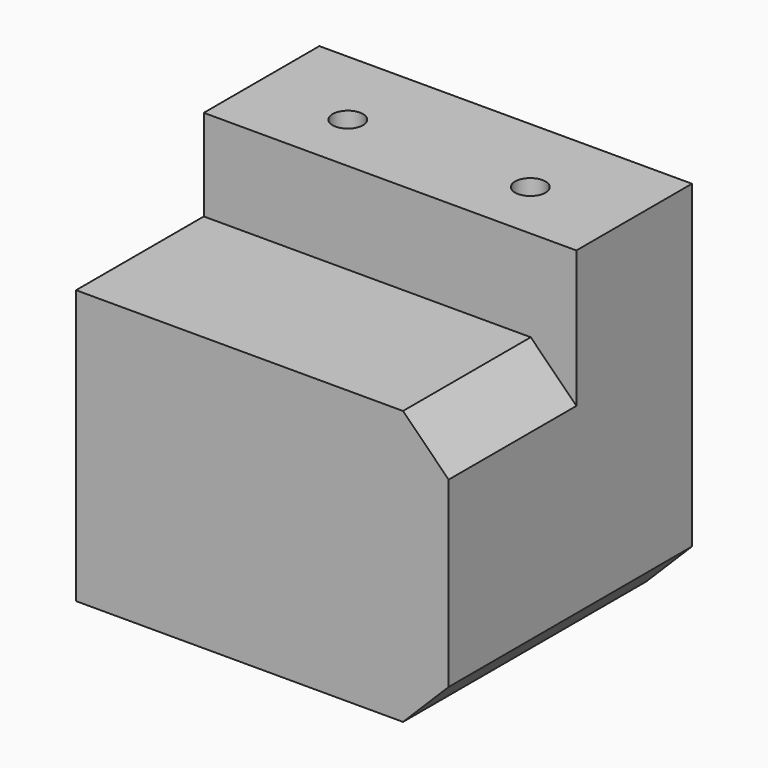
from build123d import *

# Parameters (mm, degrees)
SKETCH061_W     = 24.5
SKETCH061_H     = 20
PAD029_DEPTH    = 24
SKETCH062_W     = 24.5
SKETCH062_H     = 10.5
POCKET039_DEPTH = 6
CHAMFER023_SIZE = 3
SKETCH063_R     = 1
POCKET040_DEPTH = 24.001
CHAMFER025_SIZE = 3


with BuildPart() as part:
    # Sketch061 → Pad029 (new body)
    with BuildSketch(Plane.XY):
        with Locations((-183.55, 206.2)):
            Rectangle(SKETCH061_W, SKETCH061_H)
    extrude(amount=PAD029_DEPTH)

    # Sketch062 (on Face6 of Pad029) → Pocket039 (cut)
    with BuildSketch(Plane.XY.offset(24)):
        with Locations((-183.55, 201.45)):
            Rectangle(SKETCH062_W, SKETCH062_H)
    extrude(amount=-POCKET039_DEPTH, mode=Mode.SUBTRACT)

    # Chamfer023
    chamfer023_edges = [part.edges().sort_by_distance(p)[0] for p in [
        (-171.3, 201.45, 18),
    ]]
    chamfer(chamfer023_edges, length=CHAMFER023_SIZE)

    # Sketch063 (on Face7 of Chamfer023) → Pocket040 (cut, through all)
    with BuildSketch(Plane.XY.offset(24)):
        with Locations((-189.55, 210.725281)):
            Circle(SKETCH063_R)
        with Locations((-177.55, 210.725281)):
            Circle(SKETCH063_R)
    extrude(amount=-POCKET040_DEPTH, mode=Mode.SUBTRACT)

    # Chamfer025
    chamfer025_edges = [part.edges().sort_by_distance(p)[0] for p in [
        (-171.3, 206.2, 0),
    ]]
    chamfer(chamfer025_edges, length=CHAMFER025_SIZE)


with BuildPart() as part_1:
    # Body022 placement: moved
    add(part.part.moved(Location((0, 0, -8.6))))


solid = part_1.part
